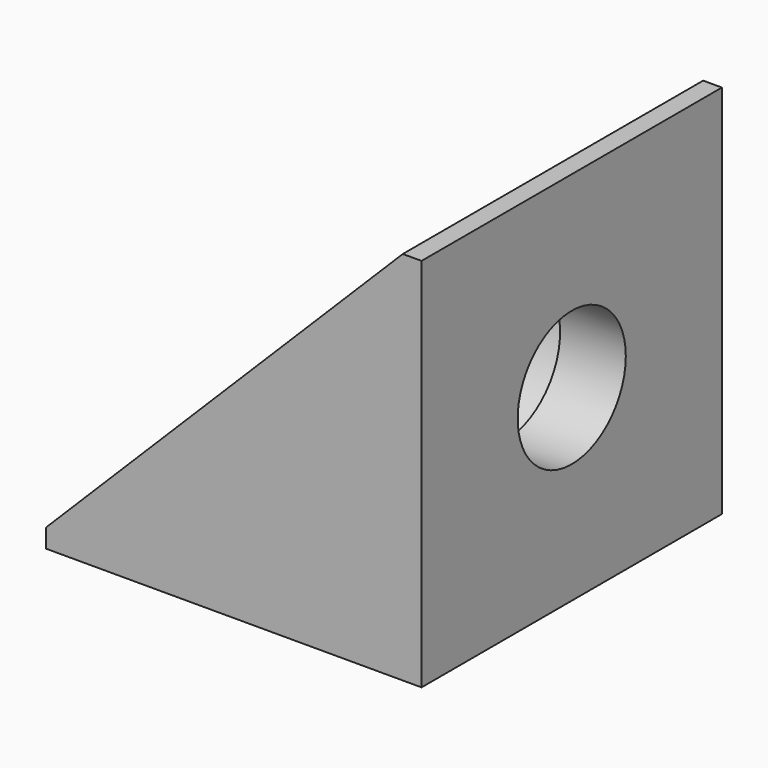
from build123d import *

# Parameters (mm, degrees)
F1_DEPTH = 20
F3_R     = 3.6
F4_DEPTH = 20.001
F2_R     = 3.6
F5_DEPTH = 20.001
F6_START = -3.5
F3_R_2   = 5.5
F6_DEPTH = 16.501
F7_START = -3.5
F2_R_2   = 5.5
F7_DEPTH = 16.501


with BuildPart() as f1:
    # F0 (on Front) → F1 (new body)
    with BuildSketch(Plane.XZ):
        Polygon((-13.2217891409, 3.8167946823), (-13.2217891409, 2.8167946823), (6.7782108591, 2.8167946823), (6.7782108591, 22.8167946823), (5.7782108591, 22.8167946823), align=None)
    extrude(amount=F1_DEPTH)

    # F3 (on face) → F4 (cut, through all)
    with BuildSketch(Plane.YZ.offset(6.7782108591)):
        with Locations((-10, 12.8167946823)):
            Circle(F3_R)
    extrude(amount=-F4_DEPTH, mode=Mode.SUBTRACT)

    # F2 (on face) → F5 (cut, through all)
    with BuildSketch(Plane(origin=(0, 0, 2.8167946823), x_dir=(1, 0, 0), z_dir=(0, 0, -1))):
        with Locations((-3.2217891409, 10)):
            Circle(F2_R)
    extrude(amount=-F5_DEPTH, mode=Mode.SUBTRACT)

    # F3 (on face) → F6 (cut)
    with BuildSketch(Plane.YZ.offset(6.7782108591).offset(F6_START)):
        with Locations((-10, 12.8167946823)):
            Circle(F3_R_2)
        with Locations((-10, 12.8167946823)):
            Circle(F3_R, mode=Mode.SUBTRACT)
    extrude(amount=-F6_DEPTH, mode=Mode.SUBTRACT)

    # F2 (on face) → F7 (cut)
    with BuildSketch(Plane(origin=(0, 0, 2.8167946823), x_dir=(1, 0, 0), z_dir=(0, 0, -1)).offset(F7_START)):
        with Locations((-3.2217891409, 10)):
            Circle(F2_R_2)
        with Locations((-3.2217891409, 10)):
            Circle(F2_R, mode=Mode.SUBTRACT)
    extrude(amount=-F7_DEPTH, mode=Mode.SUBTRACT)


solid = f1.part
